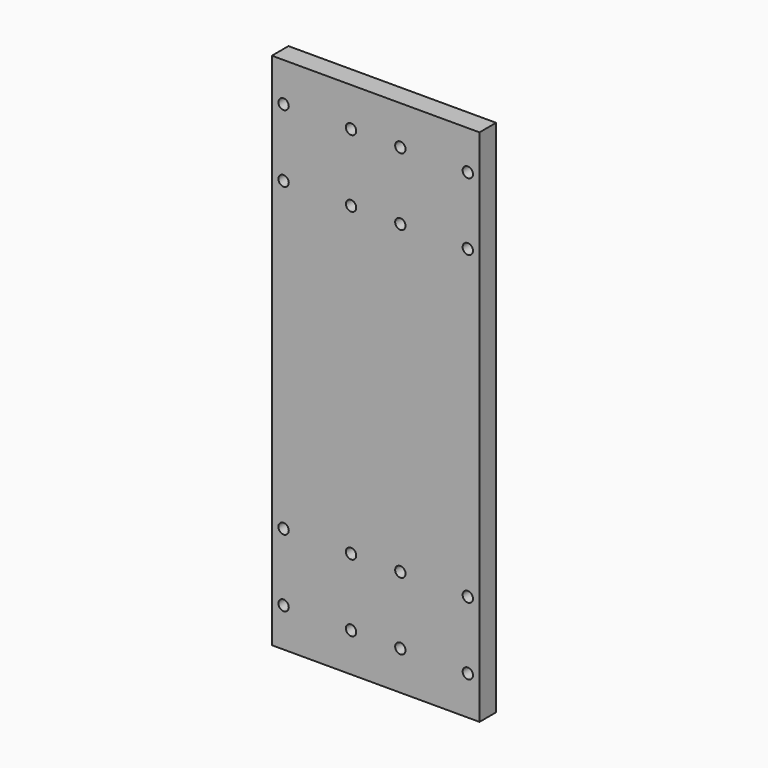
from build123d import *

# Parameters (mm, degrees)
F0_W     = 80
F0_H     = 200
F0_R     = 2
F1_DEPTH = 8


with BuildPart() as f1:
    # F0 (on Front) → F1 (new body)
    with BuildSketch(Plane.XZ):
        Rectangle(F0_W, F0_H)
        with Locations((-35.5, -85)):
            Circle(F0_R, mode=Mode.SUBTRACT)
        with Locations((-35.5, -59)):
            Circle(F0_R, mode=Mode.SUBTRACT)
        with Locations((-9.5, -85)):
            Circle(F0_R, mode=Mode.SUBTRACT)
        with Locations((-9.5, -59)):
            Circle(F0_R, mode=Mode.SUBTRACT)
        with Locations((9.5, -85)):
            Circle(F0_R, mode=Mode.SUBTRACT)
        with Locations((9.5, -59)):
            Circle(F0_R, mode=Mode.SUBTRACT)
        with Locations((35.5, -85)):
            Circle(F0_R, mode=Mode.SUBTRACT)
        with Locations((35.5, -59)):
            Circle(F0_R, mode=Mode.SUBTRACT)
        with Locations((-35.5, 59)):
            Circle(F0_R, mode=Mode.SUBTRACT)
        with Locations((-35.5, 85)):
            Circle(F0_R, mode=Mode.SUBTRACT)
        with Locations((-9.5, 59)):
            Circle(F0_R, mode=Mode.SUBTRACT)
        with Locations((-9.5, 85)):
            Circle(F0_R, mode=Mode.SUBTRACT)
        with Locations((9.5, 59)):
            Circle(F0_R, mode=Mode.SUBTRACT)
        with Locations((9.5, 85)):
            Circle(F0_R, mode=Mode.SUBTRACT)
        with Locations((35.5, 59)):
            Circle(F0_R, mode=Mode.SUBTRACT)
        with Locations((35.5, 85)):
            Circle(F0_R, mode=Mode.SUBTRACT)
    extrude(amount=F1_DEPTH)


solid = f1.part
